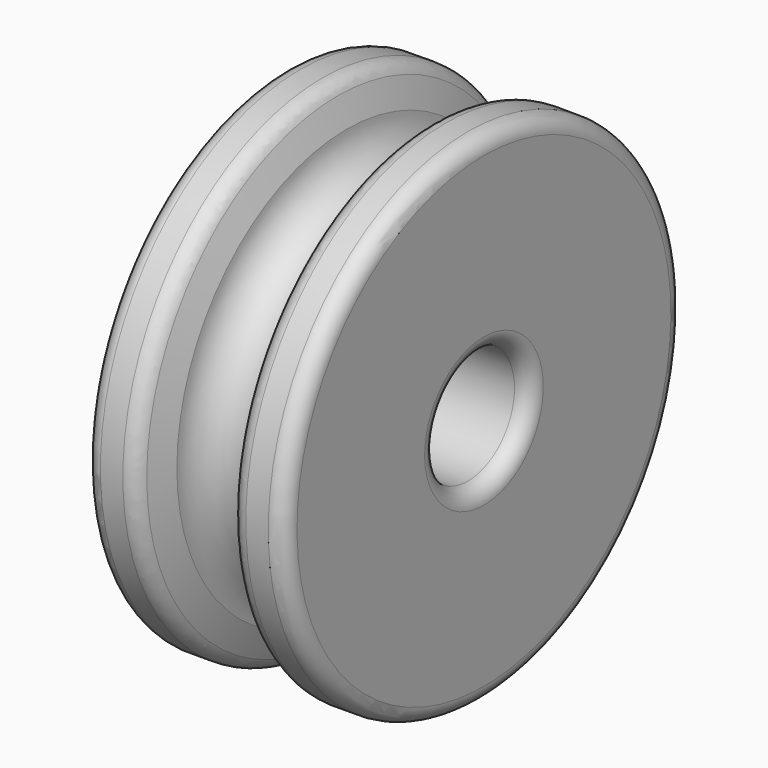
from build123d import *

# Parameters (mm, degrees)
F2_R = 0.508


with BuildPart() as f1:
    # F0 (on Front) → F1 (revolve)
    with BuildSketch(Plane.XZ):
        with BuildLine():
            Line((0, 7.9375), (0, 1.85))
            Line((0, 1.85), (6.35, 1.85))
            Line((6.35, 1.85), (6.35, 7.9375))
            Line((6.35, 7.9375), (4.7625, 7.9375))
            Line((4.7625, 7.9375), (4.365625, 6.746875))
            ThreePointArc((4.365625, 6.746875), (3.175, 5.55625), (1.984375, 6.746875))
            Line((1.984375, 6.746875), (1.5875, 7.9375))
            Line((1.5875, 7.9375), (0, 7.9375))
        make_face()
    revolve(axis=Axis((3.175, 0, 0), (1, 0, 0)))

    # F2
    f2_edges = [f1.edges().sort_by_distance(p)[0] for p in [
        (0, 0, -7.9375),
        (0, 0, -1.85),
        (6.35, 0, -1.85),
        (6.35, 0, -7.9375),
        (1.5875, 0, -7.9375),
        (4.7625, 0, -7.9375),
    ]]
    fillet(f2_edges, radius=F2_R)


solid = f1.part
